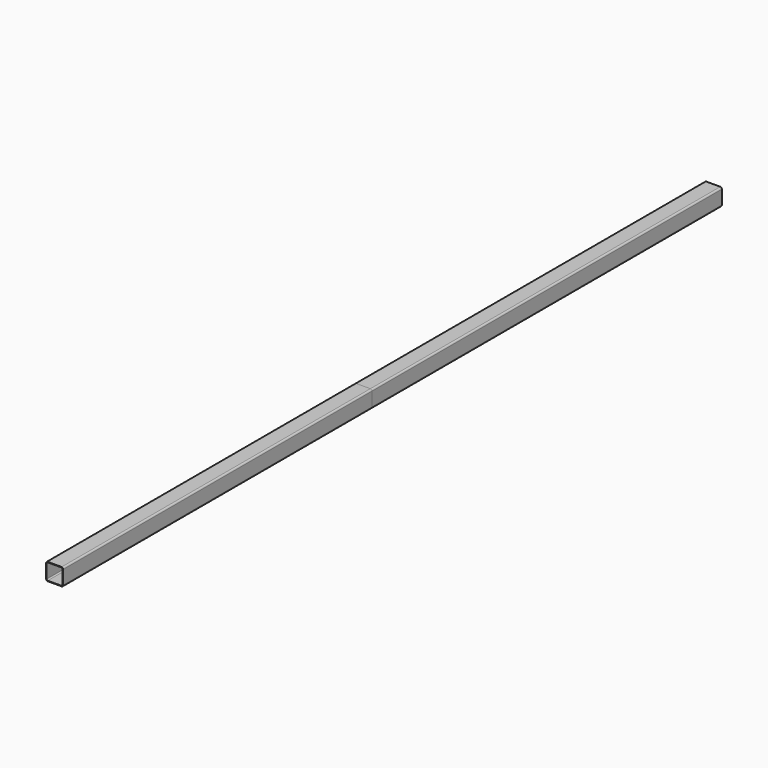
from build123d import *

# Parameters (mm, degrees)
F1_DEPTH = 4876.8
F2_DEPTH = 2590.8


with BuildPart() as f1:
    # F0 (on Front) → F1 (new body)
    with BuildSketch(Plane.XZ):
        with BuildLine():
            Line((-92.196079, 3.175), (-9.646079, 3.175))
            ThreePointArc((-9.646079, 3.175), (-2.910887, 5.964808), (-0.121079, 12.7))
            Line((-0.121079, 12.7), (-0.121079, 95.25))
            ThreePointArc((-0.121079, 95.25), (-2.910887, 101.985192), (-9.646079, 104.775))
            Line((-9.646079, 104.775), (-92.196079, 104.775))
            ThreePointArc((-92.196079, 104.775), (-98.931271, 101.985192), (-101.721079, 95.25))
            Line((-101.721079, 95.25), (-101.721079, 12.7))
            ThreePointArc((-101.721079, 12.7), (-98.931271, 5.964808), (-92.196079, 3.175))
        make_face()
        with BuildLine():
            ThreePointArc((-98.546079, 95.25), (-96.686207, 99.740128), (-92.196079, 101.6))
            Line((-92.196079, 101.6), (-9.646079, 101.6))
            ThreePointArc((-9.646079, 101.6), (-5.155951, 99.740128), (-3.296079, 95.25))
            Line((-3.296079, 95.25), (-3.296079, 12.7))
            ThreePointArc((-3.296079, 12.7), (-5.155951, 8.209872), (-9.646079, 6.35))
            Line((-9.646079, 6.35), (-92.196079, 6.35))
            ThreePointArc((-92.196079, 6.35), (-96.686207, 8.209872), (-98.546079, 12.7))
            Line((-98.546079, 12.7), (-98.546079, 95.25))
        make_face(mode=Mode.SUBTRACT)
    extrude(amount=F1_DEPTH)


with BuildPart() as f2:
    # F0 (on Front) → F2 (new body)
    with BuildSketch(Plane.XZ):
        with BuildLine():
            Line((-92.196079, 3.175), (-9.646079, 3.175))
            ThreePointArc((-9.646079, 3.175), (-2.910887, 5.964808), (-0.121079, 12.7))
            Line((-0.121079, 12.7), (-0.121079, 95.25))
            ThreePointArc((-0.121079, 95.25), (-2.910887, 101.985192), (-9.646079, 104.775))
            Line((-9.646079, 104.775), (-92.196079, 104.775))
            ThreePointArc((-92.196079, 104.775), (-98.931271, 101.985192), (-101.721079, 95.25))
            Line((-101.721079, 95.25), (-101.721079, 12.7))
            ThreePointArc((-101.721079, 12.7), (-98.931271, 5.964808), (-92.196079, 3.175))
        make_face()
        with BuildLine():
            ThreePointArc((-98.546079, 95.25), (-96.686207, 99.740128), (-92.196079, 101.6))
            Line((-92.196079, 101.6), (-9.646079, 101.6))
            ThreePointArc((-9.646079, 101.6), (-5.155951, 99.740128), (-3.296079, 95.25))
            Line((-3.296079, 95.25), (-3.296079, 12.7))
            ThreePointArc((-3.296079, 12.7), (-5.155951, 8.209872), (-9.646079, 6.35))
            Line((-9.646079, 6.35), (-92.196079, 6.35))
            ThreePointArc((-92.196079, 6.35), (-96.686207, 8.209872), (-98.546079, 12.7))
            Line((-98.546079, 12.7), (-98.546079, 95.25))
        make_face(mode=Mode.SUBTRACT)
    extrude(amount=F2_DEPTH)


solid = Compound([f1.part, f2.part])
